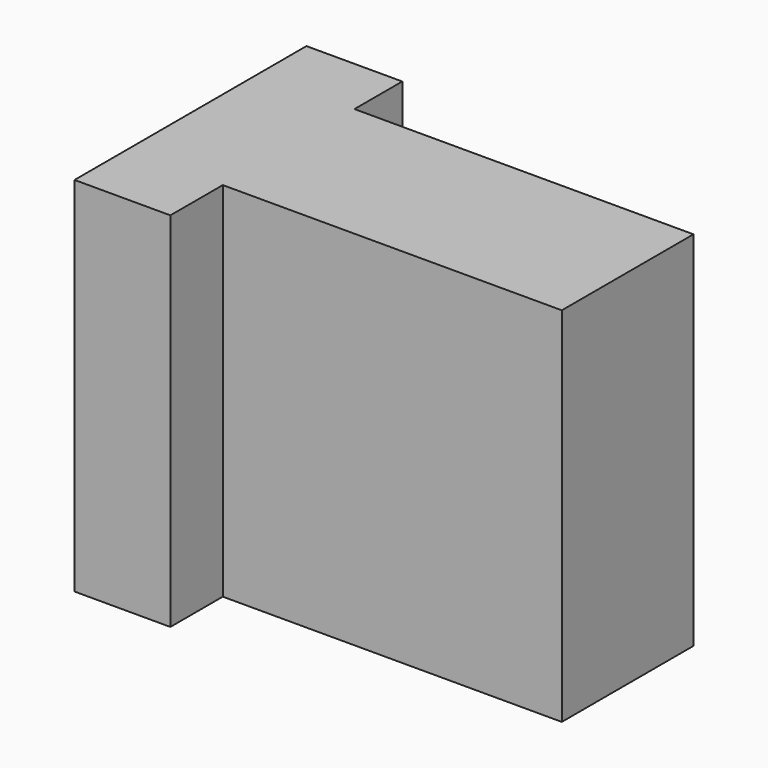
from build123d import *

# Parameters (mm, degrees)
F0_W     = 38.1
F0_H     = 31.75
F1_DEPTH = 25.4
F2_W     = 29.7038885713
F2_H     = 5.2352226339
F2_H_2   = 5.7432226181
F3_DEPTH = 31.751


with BuildPart() as f1:
    # F0 (on Front) → F1 (new body)
    with BuildSketch(Plane.XZ):
        with Locations((19.05, 15.875)):
            Rectangle(F0_W, F0_H)
    extrude(amount=F1_DEPTH)

    # F2 (on face) → F3 (cut, through all)
    with BuildSketch(Plane.XY.offset(31.75)):
        with Locations((23.2480557144, -2.617611317)):
            Rectangle(F2_W, F2_H)
        with Locations((23.2480557144, -22.5283886909)):
            Rectangle(F2_W, F2_H_2)
    extrude(amount=-F3_DEPTH, mode=Mode.SUBTRACT)


solid = f1.part
